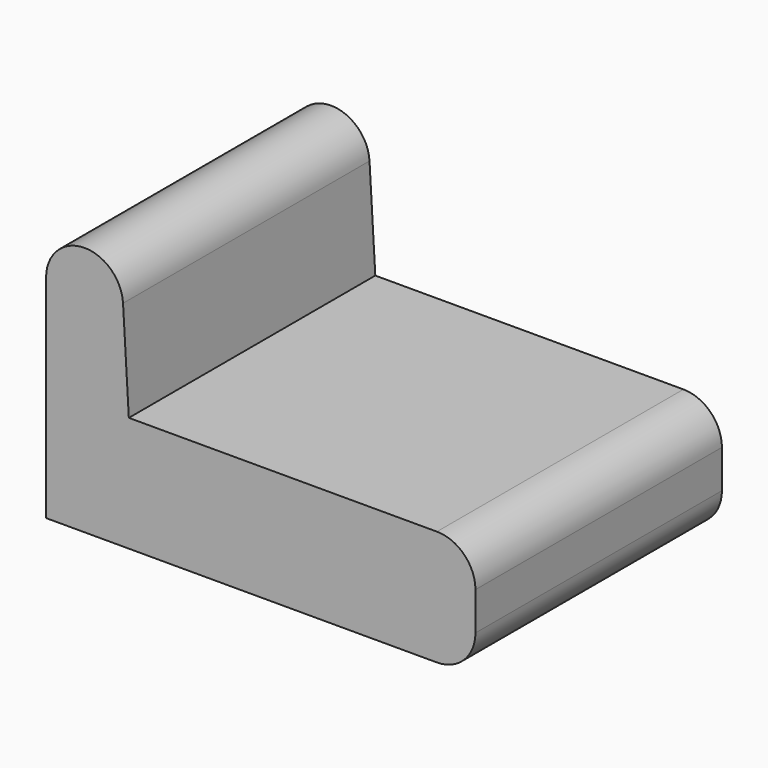
from build123d import *

# Parameters (mm, degrees)
F1_DEPTH = 50.8


with BuildPart() as f1:
    # F0 (on Front) → F1 (new body)
    with BuildSketch(Plane.XZ):
        with BuildLine():
            ThreePointArc((-17.360634, -0.82199), (-23.884981, 5.155183), (-30.049838, -1.192117))
            Line((-30.049838, -1.192117), (-30.049838, -36.133546))
            Line((-30.049838, -36.133546), (34.392419, -36.133546))
            ThreePointArc((34.392419, -36.133546), (38.882547, -34.273674), (40.742419, -29.783546))
            Line((40.742419, -29.783546), (40.742419, -23.495))
            ThreePointArc((40.742419, -23.495), (38.882547, -19.004872), (34.392419, -17.145))
            Line((34.392419, -17.145), (-16.407581, -17.145))
            Line((-16.407581, -17.145), (-17.360634, -0.82199))
        make_face()
    extrude(amount=F1_DEPTH)


solid = f1.part
